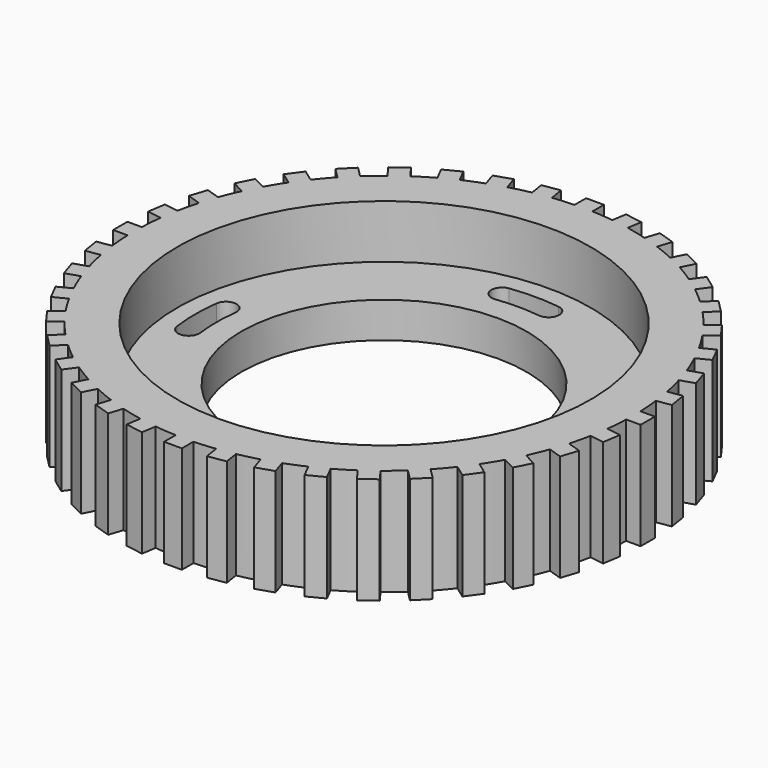
from build123d import *

# Parameters (mm, degrees)
F2_W     = 9
F2_H     = 5
F3_DEPTH = 30
F4_COUNT = 40
F6_DEPTH = 15.001


with BuildPart() as f1:
    # F0 (on Right) → F1 (revolve)
    with BuildSketch(Plane.YZ):
        Polygon((-70, 30), (-70, 0), (-58, 0), (-58, 5), (-40, 5), (-40, 15), (-58, 15), (-58, 30), align=None)
    revolve(axis=Axis((0, 0, 19.383907), (0, 0, 1)))

    # F2 (on Top) → F3 (join, through all)
    with BuildSketch(Plane.XY):
        with Locations((-69.5, 0)):
            Rectangle(F2_W, F2_H)
    extrude(amount=F3_DEPTH)

    # F4: F1 ×40 about axis
    f4_axis = Axis((0, 0, 30), (0, 0, -1))


with BuildPart() as f1_1:
    add(f1.part)
    for i in range(1, F4_COUNT):
        add(f1.part.rotate(f4_axis, i * 360 / F4_COUNT))

    # F5 (on face) → F6 (cut, through all)
    with BuildSketch(Plane.XY.offset(15)):
        with BuildLine():
            ThreePointArc((-46.597908, 6.134731), (-49.180664, 9.500644), (-52.546578, 6.917888))
            ThreePointArc((-52.546578, 6.917888), (-53, 0), (-52.546578, -6.917888))
            ThreePointArc((-52.546578, -6.917888), (-49.180664, -9.500644), (-46.597908, -6.134731))
            ThreePointArc((-46.597908, -6.134731), (-47, 0), (-46.597908, 6.134731))
        make_face()
        with BuildLine():
            ThreePointArc((6.134731, 46.597908), (9.500644, 49.180664), (6.917888, 52.546578))
            ThreePointArc((6.917888, 52.546578), (0, 53), (-6.917888, 52.546578))
            ThreePointArc((-6.917888, 52.546578), (-9.500644, 49.180664), (-6.134731, 46.597908))
            ThreePointArc((-6.134731, 46.597908), (0, 47), (6.134731, 46.597908))
        make_face()
        with BuildLine():
            ThreePointArc((46.597908, -6.134731), (49.180664, -9.500644), (52.546578, -6.917888))
            ThreePointArc((52.546578, -6.917888), (53, 0), (52.546578, 6.917888))
            ThreePointArc((52.546578, 6.917888), (49.180664, 9.500644), (46.597908, 6.134731))
            ThreePointArc((46.597908, 6.134731), (47, 0), (46.597908, -6.134731))
        make_face()
        with BuildLine():
            ThreePointArc((-6.134731, -46.597908), (-9.500644, -49.180664), (-6.917888, -52.546578))
            ThreePointArc((-6.917888, -52.546578), (0, -53), (6.917888, -52.546578))
            ThreePointArc((6.917888, -52.546578), (9.500644, -49.180664), (6.134731, -46.597908))
            ThreePointArc((6.134731, -46.597908), (0, -47), (-6.134731, -46.597908))
        make_face()
    extrude(amount=-F6_DEPTH, mode=Mode.SUBTRACT)


solid = f1_1.part
